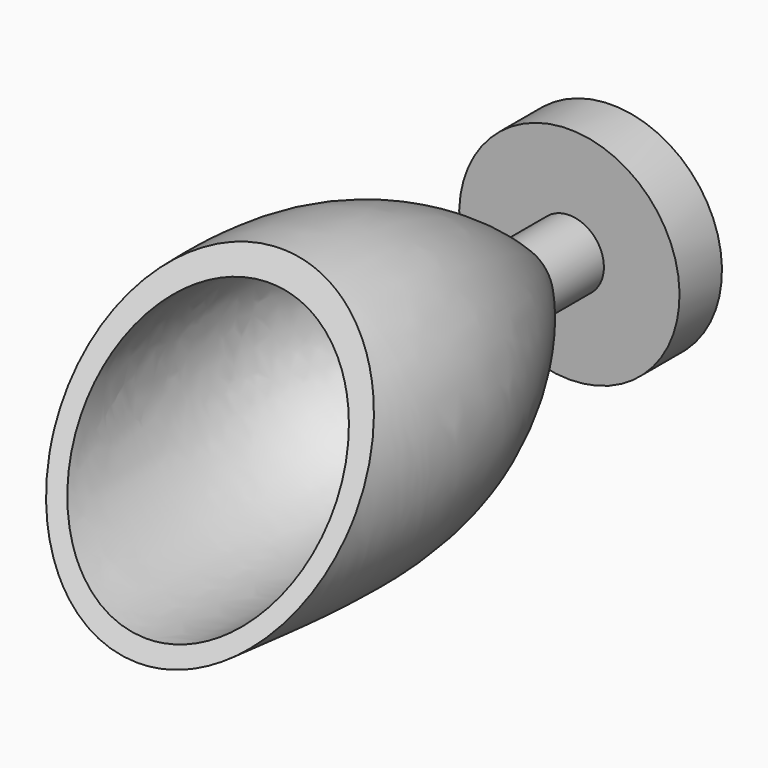
from build123d import *

# Parameters (mm, degrees)
F0_W     = 69.4261547178
F0_H     = 65.1834458113
F1_DEPTH = 152.4
F3_DEPTH = 69.4271547178


with BuildPart() as f1:
    # F0 (on Front) → F1 (new body)
    with BuildSketch(Plane.XZ):
        with Locations((7.4568847194, 32.5917229056)):
            Rectangle(F0_W, F0_H)
    extrude(amount=F1_DEPTH)

    # F2 (on face) → F3 (cut, through all)
    with BuildSketch(Plane(origin=(-27.2561926395, 0, 0), x_dir=(0, -1, 0), z_dir=(-1, 0, 0))):
        Polygon((112.2826859355, 65.1834458113), (152.4, 0), (152.4, 65.1834458113), align=None)
    extrude(amount=-F3_DEPTH, mode=Mode.SUBTRACT)

    # F4 (on Right) → F5 (revolve, intersect)
    with BuildSketch(Plane.YZ):
        with BuildLine():
            Line((-152.5269150734, 14.8531086743), (-154.7763943672, 12.385875918))
            add(Edge.make_bspline(
                [(-154.7763943672, 12.385875918), (-134.720144085, 11.4751109665), (-101.5691193196, 5.5471128264), (-77.1250000497, 20.7958557616), (-68.4191435575, 28.8366228342)],
                knots=[0, 0, 0, 0, 0.5460678486, 1, 1, 1, 1], degree=3))
            Line((-68.4191435575, 28.8366228342), (-58.2371614873, 28.8366228342))
            Line((-58.2371614873, 28.8366228342), (-58.2371614873, 16.6546069086))
            Line((-58.2371614873, 16.6546069086), (-49.6915690601, 16.6546069086))
            Line((-49.6915690601, 16.6546069086), (-49.6915690601, 34.4024300575))
            Line((-49.6915690601, 34.4024300575), (-80.1647379994, 34.4024300575))
            add(Edge.make_bspline(
                [(-80.1647379994, 34.4024300575), (-86.7692198935, 29.6400485048), (-94.900823631, 9.4595479505), (-134.8687027442, 14.6084385283), (-152.5269150734, 14.8531086743)],
                knots=[0, 0, 0, 0, 0.4050358758, 1, 1, 1, 1], degree=3))
        make_face()
    revolve(axis=Axis((0, -71.1508684326, 34.4024300575), (0, -1, 0)), mode=Mode.INTERSECT)


solid = f1.part
